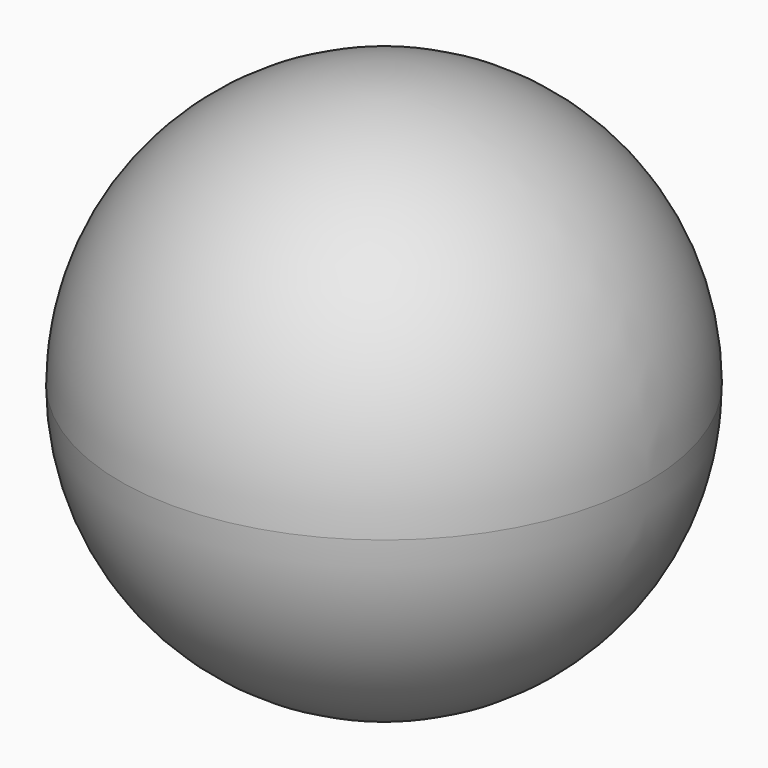
from build123d import *


with BuildPart() as f2:
    # F0 (on Front) → F2 (revolve)
    with BuildSketch(Plane.XZ):
        with BuildLine():
            Line((16.5862, 0), (0, 0))
            Line((0, 0), (0, -16.5862))
            ThreePointArc((0, -16.5862), (11.7282144941, -11.7282144941), (16.5862, 0))
        make_face()
        with BuildLine():
            Line((0, 16.5862), (0, 0))
            Line((0, 0), (16.5862, 0))
            ThreePointArc((16.5862, 0), (11.7282144941, 11.7282144941), (0, 16.5862))
        make_face()
    revolve(axis=Axis((0, 0, -114.5839616656), (0, 0, -1)))


solid = f2.part
